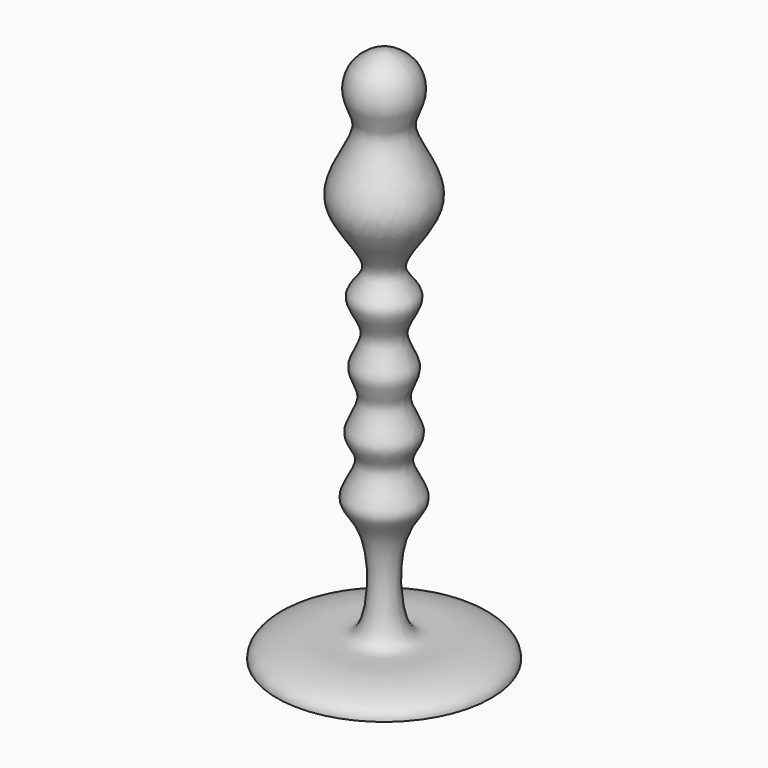
from build123d import *


with BuildPart() as f1:
    # F0 (on Front) → F1 (revolve)
    with BuildSketch(Plane.XZ):
        with BuildLine():
            Line((0, 50), (0, 0))
            Line((0, 0), (10, 0))
            add(Edge.make_bspline(
                [(10, 0), (10.0201548961, 1.2213677955), (5.1966809946, 2.2889261018), (1.1250111583, 0.9429398713), (0.8871306547, 10.9440710154), (4.2686625774, 13.0595841421), (1.1927575169, 16.3981248858), (3.7822989271, 18.5314620838), (1.0835798105, 21.4559782685), (3.4711316318, 24.0406611679), (0.682134853, 26.8031649607), (3.9235503012, 29.9789843568), (-0.0763507835, 32.2756855817), (6.6032147134, 37.7028620449), (1.2791103773, 43.4287632525), (3.3598808931, 45.9472329877), (2.8463304809, 49.0023285962), (0.5153303156, 50.0926315916), (0.1168587619, 50.0210055818), (0, 50)],
                knots=[0, 0, 0, 0, 0.0712194763, 0.1310289947, 0.2225396428, 0.280808347, 0.3385181664, 0.3882874949, 0.4444739187, 0.4972374754, 0.552746952, 0.6107611107, 0.6632364739, 0.7436698558, 0.8232520385, 0.8758751774, 0.9294702729, 0.9783867172, 1, 1, 1, 1], degree=3))
        make_face()
    revolve(axis=Axis((0, 0, 25), (0, 0, 1)))


solid = f1.part
